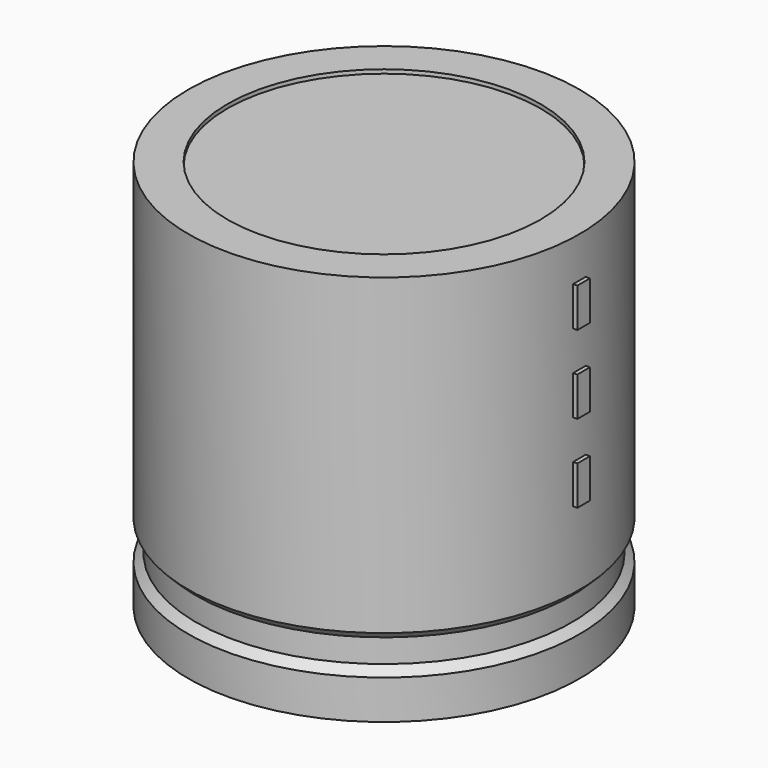
from build123d import *

# Parameters (mm, degrees)
SKETCH002_W  = 10.12
SKETCH002_H  = 21.56
SKETCH003_R  = 0.85
PAD_DEPTH    = 5.2
SKETCH004_W  = 0.88
SKETCH004_H  = 2.2
PAD001_DEPTH = 11.22


with BuildPart() as revolution:
    # Sketch → Revolution (revolve)
    with BuildSketch(Plane.XZ):
        Polygon((-6, 0.1), (-6, 2.3), (-5.56, 2.74), (-5.56, 4.06), (-6, 4.5), (-6, 22.1), (-3.8, 22.1), (-3.8, 0.1), align=None)
    revolve(axis=Axis((5, 0, 7.548619), (0, 0, -1)))


with BuildPart() as revolution001:
    # Sketch002 → Revolution001 (revolve)
    with BuildSketch(Plane.XZ):
        with Locations((-0.06, 11.1)):
            Rectangle(SKETCH002_W, SKETCH002_H)
    revolve(axis=Axis((5, 0, 4.680116), (0, 0, -1)))


with BuildPart() as pad:
    # Sketch003 → Pad (new body)
    with BuildSketch(Plane.XY.offset(2.2)):
        Circle(SKETCH003_R)
        with Locations((10, 0)):
            Circle(SKETCH003_R)
    extrude(amount=-PAD_DEPTH)


with BuildPart() as pad001:
    # Sketch004 → Pad001 (new body)
    with BuildSketch(Plane.YZ.offset(5)):
        with Locations((0, 9.9)):
            Rectangle(SKETCH004_W, SKETCH004_H)
        with Locations((0, 14.3)):
            Rectangle(SKETCH004_W, SKETCH004_H)
        with Locations((0, 18.7)):
            Rectangle(SKETCH004_W, SKETCH004_H)
    extrude(amount=PAD001_DEPTH)


solid = Compound([revolution.part, revolution001.part, pad.part, pad001.part])
